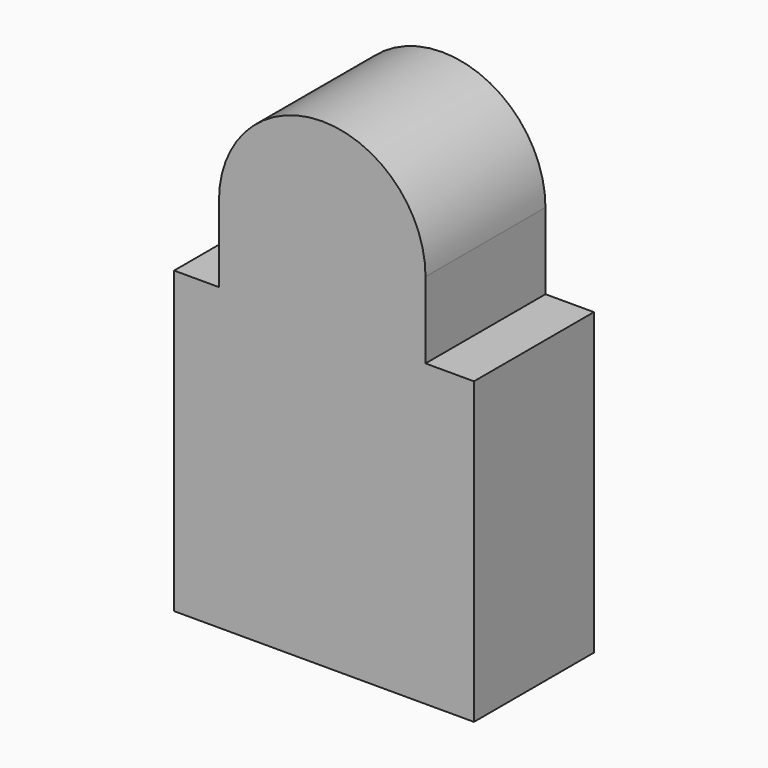
from build123d import *

# Parameters (mm, degrees)
F0_W     = 17.802479
F0_H     = 12.93602
F0_W_2   = 17.195575
F1_DEPTH = 25.4


with BuildPart() as f1:
    # F0 (on Front) → F1 (new body)
    with BuildSketch(Plane.XZ):
        with BuildLine():
            ThreePointArc((17.195575, 38.33602), (-0.303452, 55.835047), (-17.802479, 38.33602))
            Line((-17.802479, 38.33602), (0, 38.33602))
            Line((0, 38.33602), (17.195575, 38.33602))
        make_face()
        with Locations((-8.901239, 31.86801)):
            Rectangle(F0_W, F0_H)
        Polygon((-25.4, 25.4), (-25.4, -25.4), (25.4, -25.4), (25.4, 25.4), (17.195575, 25.4), (0, 25.4), (-17.802479, 25.4), align=None)
        with Locations((8.597787, 31.86801)):
            Rectangle(F0_W_2, F0_H)
    extrude(amount=F1_DEPTH)


solid = f1.part
